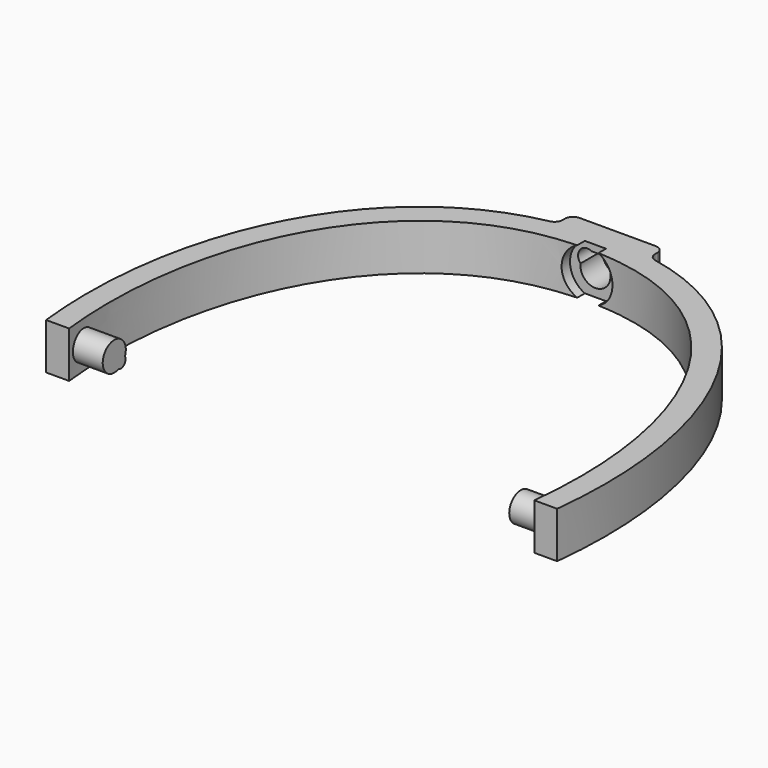
from build123d import *

# Parameters (mm, degrees)
PAD005_DEPTH    = 10
SKETCH015_R     = 3.125
SKETCH015_R_2   = 1.25
PAD006_DEPTH    = 110
SKETCH016_W     = 88
SKETCH016_H     = 11
POCKET006_DEPTH = 10.001
SKETCH017_W     = 20
SKETCH017_H     = 10
PAD007_DEPTH    = 5
POCKET007_DEPTH = 85.509727
SKETCH019_R     = 5.5
POCKET008_DEPTH = 75
FILLET_R        = 1.75


with BuildPart() as part:
    # Sketch014 → Pad005 (new body)
    with BuildSketch(Plane.XY):
        with BuildLine():
            Line((55.320782, -4.5), (50.377184, -4.5))
            add(Edge.make_bspline(
                [(50.377184, -4.5), (53.986589, 28.285571), (45.809605, 54.91681), (30.437237, 68.919253), (14.05506, 72.999995), (2.4e-05, 73), (-14.058167, 73.000005), (-30.444405, 68.917468), (-45.797003, 54.963624), (-53.960317, 28.337681), (-50.332268, -4.5)],
                knots=[0.459879, 0.459879, 0.459879, 0.459879, 0.459879, 0.459879, 1, 1, 1, 1, 1, 1.540216, 1.540216, 1.540216, 1.540216, 1.540216, 1.540216], degree=5, weights=[1.511377, 1.459145, 1.581492, 1.878748, 2.351855, 3, 2.351741, 1.878582, 1.580192, 1.456955, 1.509005]))
            Line((-50.332268, -4.5), (-55.312029, -4.5))
            add(Edge.make_bspline(
                [(55.320782, -4.5), (59.190875, 30.481044), (50.18289, 58.805264), (33.344109, 73.658439), (15.399277, 77.999995), (2.5e-05, 78), (-15.399851, 78.000005), (-33.345502, 73.658102), (-50.180453, 58.814098), (-59.185767, 30.490915), (-55.312029, -4.5)],
                knots=[0.460805, 0.460805, 0.460805, 0.460805, 0.460805, 0.460805, 1, 1, 1, 1, 1, 1.539212, 1.539212, 1.539212, 1.539212, 1.539212, 1.539212], degree=5, weights=[1.509472, 1.458717, 1.582334, 1.880371, 2.352966, 3, 2.352945, 1.88034, 1.582103, 1.458328, 1.50905]))
        make_face()
    extrude(amount=PAD005_DEPTH)

    # Sketch015 (on DatumPlane) → Pad006 (join)
    with BuildSketch(Plane(origin=(55.001235, 46.003648, 5), x_dir=(0, 0, -1), z_dir=(1, -4.6e-05, 0))):
        with Locations((0, -46.2)):
            Circle(SKETCH015_R)
        with Locations((1.8, -44.4)):
            Circle(SKETCH015_R_2)
    extrude(amount=-PAD006_DEPTH)

    # Sketch016 (on Face5 of Pad006) → Pocket006 (cut, through all)
    with BuildSketch(Plane.XY.offset(10)):
        Rectangle(SKETCH016_W, SKETCH016_H)
    extrude(amount=-POCKET006_DEPTH, mode=Mode.SUBTRACT)

    # Sketch017 (on DatumPlane) → Pad007 (join)
    with BuildSketch(Plane(origin=(0.002608, 76.006164, 5), x_dir=(1, -4.6e-05, 0), z_dir=(4.6e-05, 1, 0))):
        Rectangle(SKETCH017_W, SKETCH017_H)
    extrude(amount=PAD007_DEPTH)

    # Sketch018 (on Face14 of Pad007) → Pocket007 (cut, through all)
    with BuildSketch(Plane(origin=(0.003707, 81.006164, 10), x_dir=(1, -4.6e-05, 0), z_dir=(4.6e-05, 1, 0))):
        with BuildLine():
            ThreePointArc((-3.225332, 4.600332), (-3.320764, 2.011977), (-0.781754, 1.5))
            Line((-0.781754, 1.5), (0.781754, 1.5))
            ThreePointArc((0.781754, 1.5), (3.320764, 2.011977), (3.225332, 4.600332))
            ThreePointArc((3.225332, 4.600332), (0, 8.25), (-3.225332, 4.600332))
        make_face()
    extrude(amount=-POCKET007_DEPTH, mode=Mode.SUBTRACT)

    # Sketch019 → Pocket008 (cut)
    with BuildSketch(Plane.XZ):
        with Locations((0, 5)):
            Circle(SKETCH019_R)
    extrude(amount=-POCKET008_DEPTH, mode=Mode.SUBTRACT)

    # Fillet
    fillet_edges = [part.edges().sort_by_distance(p)[0] for p in [
        (10.002837, 81.005707, 4.999997),
        (10.002661, 77.167792, 4.999997),
        (-9.997339, 77.168929, 5.000003),
        (-9.997163, 81.006622, 5.000003),
    ]]
    fillet(fillet_edges, radius=FILLET_R)


with BuildPart() as part_1:
    # Body004 placement: moved
    add(part.part.moved(Location((0, 0, 2.5))))


solid = part_1.part
